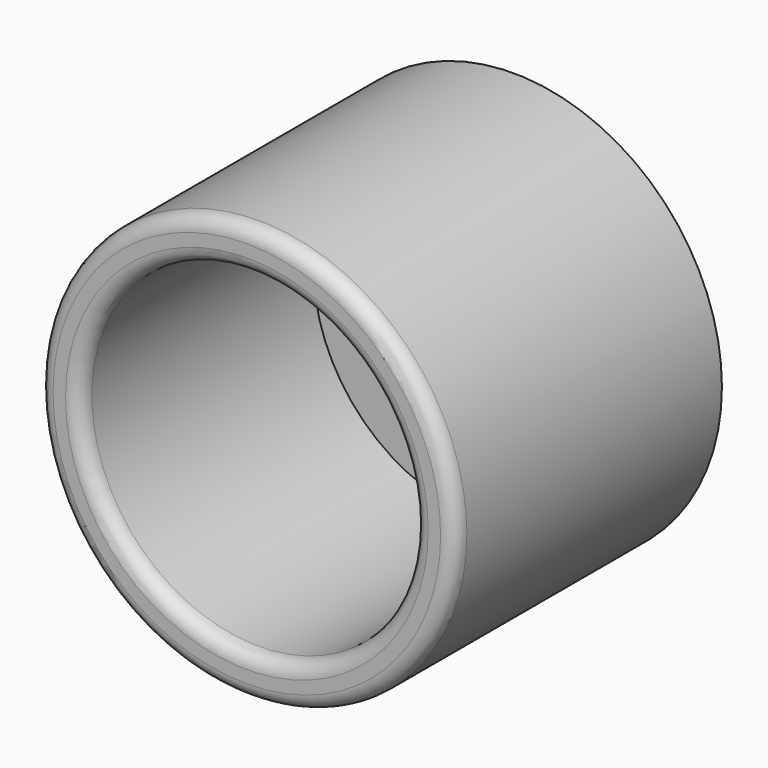
from build123d import *

# Parameters (mm, degrees)
F0_R     = 12.7
F1_DEPTH = 20.32
F2_T     = -2.54
F3_R     = 0.889


with BuildPart() as f1:
    # F0 (on Front) → F1 (new body)
    with BuildSketch(Plane.XZ):
        with Locations((37.7853997052, 47.8872768581)):
            Circle(F0_R)
    extrude(amount=F1_DEPTH)

    # F2
    f2_openings = [f1.faces().sort_by_distance(p)[0] for p in [
        (37.7854, -20.32, 47.887277),
    ]]
    offset(amount=F2_T, openings=f2_openings)

    # F3
    f3_edges = [f1.edges().sort_by_distance(p)[0] for p in [
        (25.0854, -20.32, 47.887277),
        (27.6254, -20.32, 47.887277),
    ]]
    fillet(f3_edges, radius=F3_R)


solid = f1.part
